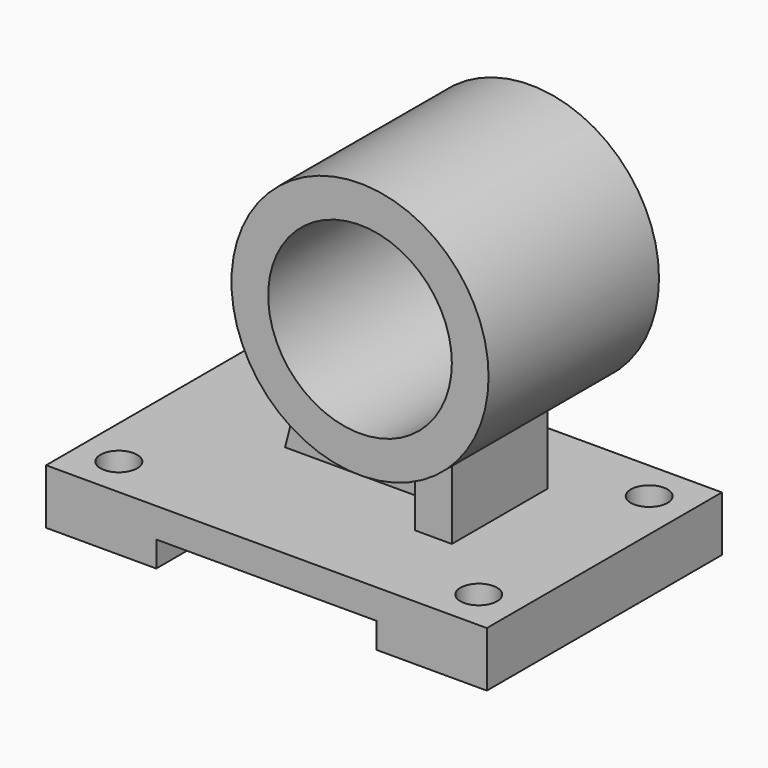
from build123d import *

# Parameters (mm, degrees)
F1_DEPTH  = 80
F2_R      = 5
F3_DEPTH  = 25
F5_DEPTH  = 60
F6_R      = 35
F7_DEPTH  = 33
F8_DEPTH  = 25
F9_R      = 25
F10_DEPTH = 52.6
F11_R     = 25
F12_DEPTH = 52.6
F14_DEPTH = 25


with BuildPart() as f1:
    # F0 (on Front) → F1 (new body)
    with BuildSketch(Plane.XZ):
        Polygon((-66.513142, 0), (-36.513142, 0), (-36.513142, 6.962258), (23.486858, 6.962258), (23.486858, 0), (53.486858, 0), (53.486858, 15), (-66.513142, 15), align=None)
    extrude(amount=F1_DEPTH)

    # F2 (on face) → F3 (cut)
    with BuildSketch(Plane.XY.offset(15)):
        with Locations((42.486858, -11)):
            Circle(F2_R)
        with Locations((42.486858, -69)):
            Circle(F2_R)
        with Locations((-55.513142, -69)):
            Circle(F2_R)
        with Locations((-55.513142, -11)):
            Circle(F2_R)
    extrude(amount=-F3_DEPTH, mode=Mode.SUBTRACT)

    # F4 (on face) → F5 (join)
    with BuildSketch(Plane.XY.offset(15)):
        Polygon((23.486858, -54.41226), (23.486858, -21.807771), (13.486858, -21.807771), (13.486858, -31.807771), (-32.013142, -31.807771), (-32.013142, -41.807771), (13.486858, -41.807771), (13.486858, -54.41226), align=None)
    extrude(amount=F5_DEPTH)

    # F6 (on face) → F7 (join)
    with BuildSketch(Plane.XZ.offset(54.41226)):
        with Locations((18.486858, 75)):
            Circle(F6_R)
    extrude(amount=-F7_DEPTH)

    # F6 (on face) → F8 (join)
    with BuildSketch(Plane.XZ.offset(54.41226)):
        with Locations((18.486858, 75)):
            Circle(F6_R)
    extrude(amount=F8_DEPTH)

    # F9 (on face) → F10 (cut)
    with BuildSketch(Plane.XZ.offset(79.41226)):
        with Locations((18.486858, 75)):
            Circle(F9_R)
    extrude(amount=-F10_DEPTH, mode=Mode.SUBTRACT)

    # F11 (on face) → F12 (cut)
    with BuildSketch(Plane(origin=(0, -21.41226, 0), x_dir=(-1, 0, 0), z_dir=(0, 1, 0))):
        with Locations((-18.486858, 75)):
            Circle(F11_R)
    extrude(amount=-F12_DEPTH, mode=Mode.SUBTRACT)

    # F13 (on face) → F14 (cut)
    with BuildSketch(Plane.XZ.offset(41.807771)):
        Polygon((-32.013142, 15), (-16.513142, 75), (-32.013142, 75), align=None)
    extrude(amount=-F14_DEPTH, mode=Mode.SUBTRACT)


solid = f1.part
